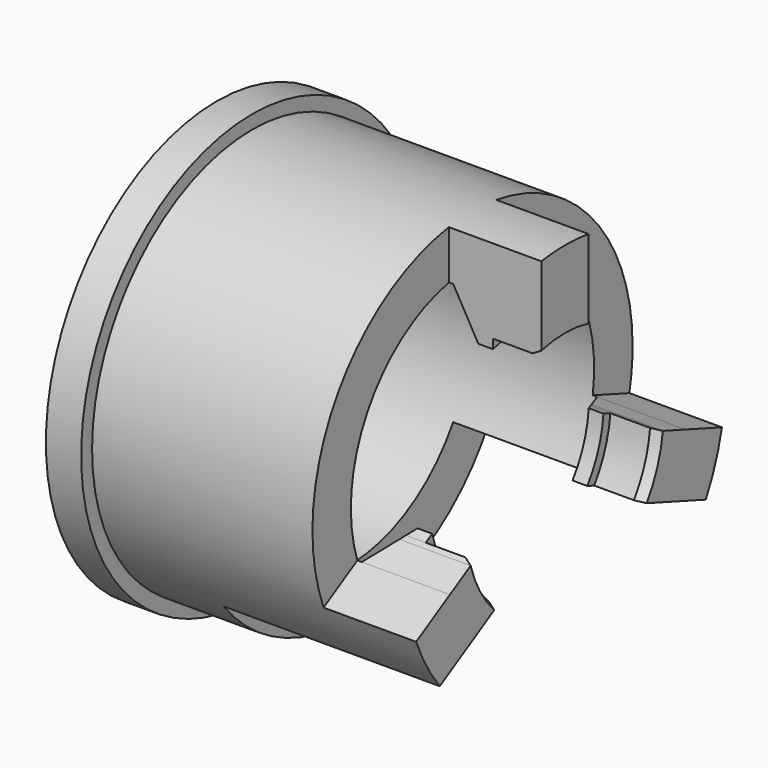
from build123d import *

# Parameters (mm, degrees)
F3_DEPTH = 10.5
F4_DEPTH = 39.501
F5_DEPTH = 24.5
F6_DEPTH = 39.501


with BuildPart() as f1:
    # F0 (on Front) → F1 (revolve)
    with BuildSketch(Plane.XZ):
        Polygon((0, 24.25), (0, 17.75), (0.5, 17.25), (29.5, 17.25), (32.329016319, 12.35), (34, 12.35), (34, 13.3625), (38.5, 13.3625), (39.5, 13.9398502692), (39.5, 22.7), (4, 22.7), (4, 24.25), align=None)
    revolve(axis=Axis((21.5225653753, 0, 0), (1, 0, 0)))

    # F2 (on face) → F3 (cut)
    with BuildSketch(Plane.YZ.offset(39.5)):
        with BuildLine():
            Line((-3.35, 16.9215838502), (-3.35, 22.4514476148))
            ThreePointArc((-3.35, 22.4514476148), (-19.6587766659, 11.35), (-21.1185239862, -8.3245387047))
            Line((-21.1185239862, -8.3245387047), (-16.3295214866, -5.5596068224))
            ThreePointArc((-16.3295214866, -5.5596068224), (-14.9389382153, 8.625), (-3.35, 16.9215838502))
        make_face()
        with BuildLine():
            ThreePointArc((22.7, 0), (17.1949847339, 14.8196659881), (3.35, 22.4514476148))
            Line((3.35, 22.4514476148), (3.35, 16.9215838502))
            ThreePointArc((3.35, 16.9215838502), (14.130372764, 9.8941935271), (17.0468549562, -2.6395522541))
            Line((17.0468549562, -2.6395522541), (22.2432271297, -4.5308770514))
            ThreePointArc((22.2432271297, -4.5308770514), (22.5855181017, -2.2769216231), (22.7, 0))
        make_face()
    extrude(amount=-F3_DEPTH, mode=Mode.SUBTRACT)

    # F2 (on face) → F4 (cut, through all)
    with BuildSketch(Plane.YZ.offset(39.5)):
        with BuildLine():
            Line((-3.35, 13.5313312548), (-3.35, 16.9215838502))
            ThreePointArc((-3.35, 16.9215838502), (-14.9389382153, 8.625), (-16.3295214866, -5.5596068224))
            Line((-16.3295214866, -5.5596068224), (-13.3934766137, -3.8644805247))
            ThreePointArc((-13.3934766137, -3.8644805247), (-12.0722644581, 6.9699251346), (-3.35, 13.5313312548))
        make_face()
        with BuildLine():
            ThreePointArc((17.0468549562, -2.6395522541), (14.130372764, 9.8941935271), (3.35, 16.9215838502))
            Line((3.35, 16.9215838502), (3.35, 13.5313312548))
            ThreePointArc((3.35, 13.5313312548), (10.9776573988, 8.5913016222), (13.9398502692, 0))
            ThreePointArc((13.9398502692, 0), (13.9201386678, -0.7410566766), (13.8610596097, -1.4800175755))
            Line((13.8610596097, -1.4800175755), (17.0468549562, -2.6395522541))
        make_face()
        with BuildLine():
            Line((-3.35, 11.8869676537), (-3.35, 12.9357607527))
            ThreePointArc((-3.35, 12.9357607527), (-11.5722644581, 6.68125), (-12.8776974291, -3.5666952737))
            Line((-12.8776974291, -3.5666952737), (-11.9694159621, -3.0422987242))
            ThreePointArc((-11.9694159621, -3.0422987242), (-10.6954137367, 6.175), (-3.35, 11.8869676537))
        make_face()
        with BuildLine():
            Line((-3.35, 12.9357607527), (-3.35, 13.5313312548))
            ThreePointArc((-3.35, 13.5313312548), (-12.0722644581, 6.9699251346), (-13.3934766137, -3.8644805247))
            Line((-13.3934766137, -3.8644805247), (-12.8776974291, -3.5666952737))
            ThreePointArc((-12.8776974291, -3.5666952737), (-11.5722644581, 6.68125), (-3.35, 12.9357607527))
        make_face()
        with BuildLine():
            ThreePointArc((13.3625, 0), (10.5669480279, 8.1789984488), (3.35, 12.9357607527))
            Line((3.35, 12.9357607527), (3.35, 11.8869676537))
            ThreePointArc((3.35, 11.8869676537), (9.8461921574, 7.4548641839), (12.35, 0))
            ThreePointArc((12.35, 0), (12.3414628662, -0.4591234269), (12.3158632678, -0.917612101))
            Line((12.3158632678, -0.917612101), (13.3014064037, -1.276320467))
            ThreePointArc((13.3014064037, -1.276320467), (13.3472178621, -0.6388909066), (13.3625, 0))
        make_face()
        with BuildLine():
            ThreePointArc((13.9398502692, 0), (10.9776573988, 8.5913016222), (3.35, 13.5313312548))
            Line((3.35, 13.5313312548), (3.35, 12.9357607527))
            ThreePointArc((3.35, 12.9357607527), (10.5669480279, 8.1789984488), (13.3625, 0))
            ThreePointArc((13.3625, 0), (13.3472178621, -0.6388909066), (13.3014064037, -1.276320467))
            Line((13.3014064037, -1.276320467), (13.8610596097, -1.4800175755))
            ThreePointArc((13.8610596097, -1.4800175755), (13.9201386678, -0.7410566766), (13.9398502692, 0))
        make_face()
    extrude(amount=-F4_DEPTH, mode=Mode.SUBTRACT)

    # F2 (on face) → F5 (cut)
    with BuildSketch(Plane.YZ.offset(39.5)):
        with BuildLine():
            Line((-12.9795214866, -11.3619770278), (-17.7685239862, -14.1269089101))
            ThreePointArc((-17.7685239862, -14.1269089101), (1.9784353604, -22.6136196467), (19.9516921694, -10.8268176107))
            Line((19.9516921694, -10.8268176107), (14.7553199959, -8.9354928134))
            ThreePointArc((14.7553199959, -8.9354928134), (1.5034365624, -17.1843585421), (-12.9795214866, -11.3619770278))
        make_face()
    extrude(amount=-F5_DEPTH, mode=Mode.SUBTRACT)

    # F2 (on face) → F6 (cut, through all)
    with BuildSketch(Plane.YZ.offset(39.5)):
        with BuildLine():
            Line((-10.0434766137, -9.6668507301), (-12.9795214866, -11.3619770278))
            ThreePointArc((-12.9795214866, -11.3619770278), (1.5034365624, -17.1843585421), (14.7553199959, -8.9354928134))
            Line((14.7553199959, -8.9354928134), (11.5695246494, -7.7759581348))
            ThreePointArc((11.5695246494, -7.7759581348), (1.214938004, -13.8868049304), (-10.0434766137, -9.6668507301))
        make_face()
        with BuildLine():
            Line((-8.6194159621, -8.8446689295), (-9.5276974291, -9.369065479))
            ThreePointArc((-9.5276974291, -9.369065479), (1.1646186125, -13.3116516533), (11.0098714434, -7.5722610263))
            Line((11.0098714434, -7.5722610263), (10.0243283076, -7.2135526603))
            ThreePointArc((10.0243283076, -7.2135526603), (1.0763734229, -12.3030045214), (-8.6194159621, -8.8446689295))
        make_face()
        with BuildLine():
            Line((-9.5276974291, -9.369065479), (-10.0434766137, -9.6668507301))
            ThreePointArc((-10.0434766137, -9.6668507301), (1.214938004, -13.8868049304), (11.5695246494, -7.7759581348))
            Line((11.5695246494, -7.7759581348), (11.0098714434, -7.5722610263))
            ThreePointArc((11.0098714434, -7.5722610263), (1.1646186125, -13.3116516533), (-9.5276974291, -9.369065479))
        make_face()
    extrude(amount=-F6_DEPTH, mode=Mode.SUBTRACT)


solid = f1.part
